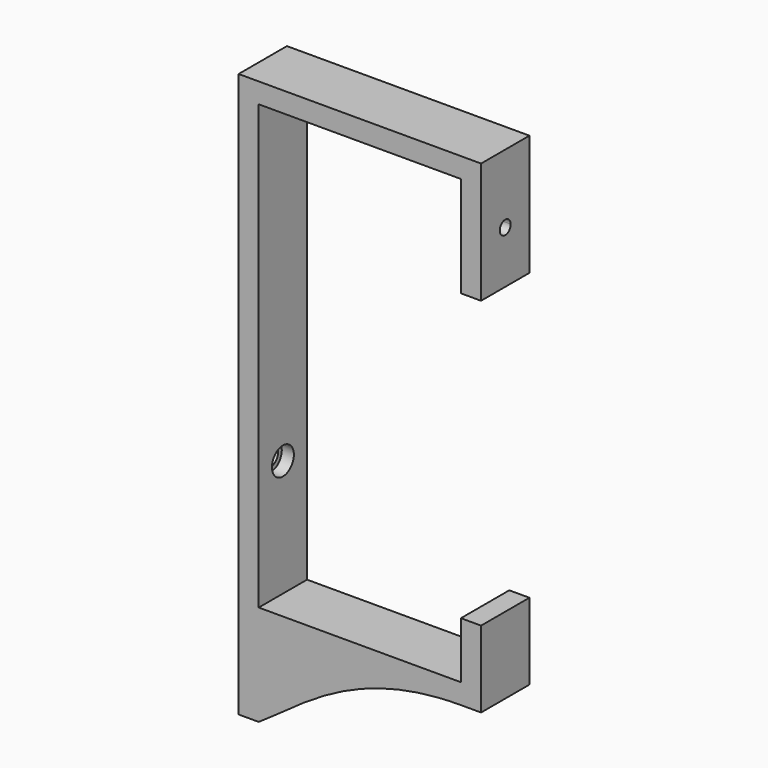
from build123d import *

# Parameters (mm, degrees)
F1_W     = 5
F1_H     = 10
F1_W_2   = 50.2
F1_H_2   = 5
F1_H_3   = 11
F2_DEPTH = 15
F3_START = 25
F3_DEPTH = 49
F0_R     = 2.25
F4_DEPTH = 38.6
F5_START = 2
F0_R_2   = 3.4
F5_DEPTH = 47.7


with BuildPart() as f2:
    # F1 (on Front) → F2 (new body)
    with BuildSketch(Plane.XZ):
        Polygon((0, 34), (0, 0), (5, 0), (5, 5), (5, 34), align=None)
        with Locations((2.5, -5)):
            Rectangle(F1_W, F1_H)
        with Locations((30.1, 2.5)):
            Rectangle(F1_W_2, F1_H_2)
        with BuildLine():
            Line((55.2, 0), (5, 0))
            Line((5, 0), (5, -10))
            Line((5, -10), (5, -20))
            add(Edge.make_bspline(
                [(5, -20), (15.5953727663, -13.1017330475), (28.5827647895, 0), (55.2, 0)],
                knots=[0, 0, 0, 0, 54.0373944598, 54.0373944598, 54.0373944598, 54.0373944598], degree=3))
        make_face()
        Polygon((0, 120), (0, 34), (5, 34), (5, 115), (5, 120), align=None)
        with Locations((2.5, -15)):
            Rectangle(F1_W, F1_H)
        Polygon((55.2, 5), (55.2, 0), (60.2, 0), (60.2, 19), (55.2, 19), align=None)
        with Locations((30.1, 117.5)):
            Rectangle(F1_W_2, F1_H_2)
        Polygon((60.2, 120), (55.2, 120), (55.2, 115), (55.2, 101), (60.2, 101), align=None)
        with Locations((57.7, 95.5)):
            Rectangle(F1_W, F1_H_3)
    extrude(amount=F2_DEPTH)

    # F0 (on Right) → F3 (cut)
    with BuildSketch(Plane.YZ.offset(F3_START)):
        with BuildLine():
            ThreePointArc((-5.8, 103), (-6.297918472, 104.202081528), (-7.5, 104.7))
            ThreePointArc((-7.5, 104.7), (-8.702081528, 101.797918472), (-5.8, 103))
        make_face()
    extrude(amount=F3_DEPTH, mode=Mode.SUBTRACT)

    # F0 (on Right) → F4 (cut)
    with BuildSketch(Plane.YZ):
        with Locations((-7.5, 34)):
            Circle(F0_R)
        with Locations((-7.5, -10)):
            Circle(F0_R)
    extrude(amount=F4_DEPTH, mode=Mode.SUBTRACT)

    # F0 (on Right) → F5 (cut)
    with BuildSketch(Plane.YZ.offset(F5_START)):
        with Locations((-7.5, -10)):
            Circle(F0_R_2)
        with Locations((-7.5, -10)):
            Circle(F0_R, mode=Mode.SUBTRACT)
        with Locations((-7.5, 34)):
            Circle(F0_R_2)
        with Locations((-7.5, 34)):
            Circle(F0_R, mode=Mode.SUBTRACT)
    extrude(amount=F5_DEPTH, mode=Mode.SUBTRACT)


solid = f2.part
